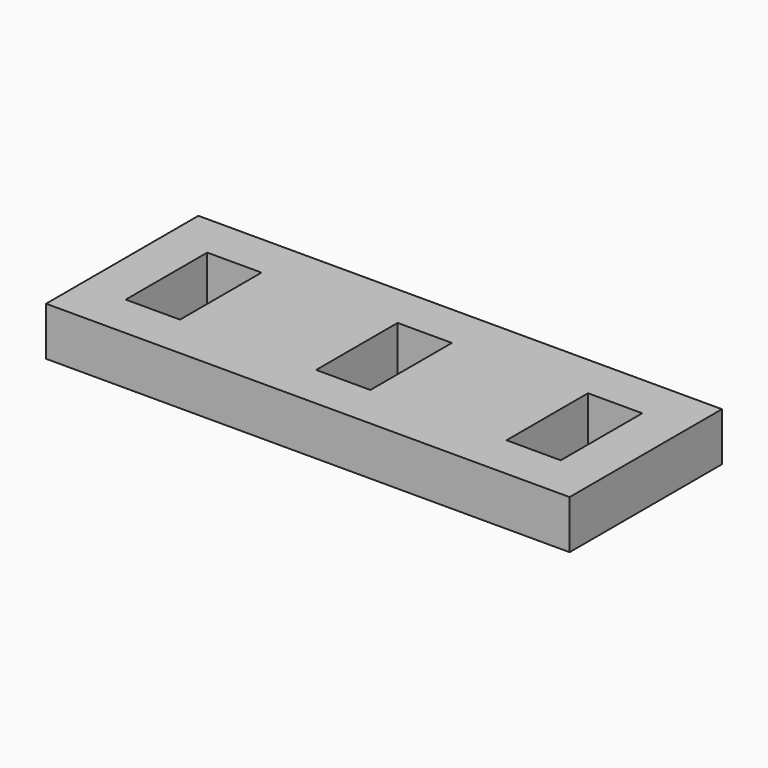
from build123d import *

# Parameters (mm, degrees)
F0_W     = 55
F0_H     = 20
F0_W_2   = 14.3
F0_H_2   = 10
F1_DEPTH = 5.1


with BuildPart() as f1:
    # F0 (on Top) → F1 (new body)
    with BuildSketch(Plane.XY):
        Rectangle(F0_W, F0_H)
        Polygon((-17.15, 5.35), (-17.15, 5), (-2.85, 5), (-2.85, 5.35), (2.85, 5.35), (2.85, 5), (17.15, 5), (17.15, 5.35), (22.85, 5.35), (22.85, -5.35), (17.15, -5.35), (17.15, -5), (2.85, -5), (2.85, -5.35), (-2.85, -5.35), (-2.85, -5), (-17.15, -5), (-17.15, -5.35), (-22.85, -5.35), (-22.85, 5.35), align=None, mode=Mode.SUBTRACT)
        with Locations((-10, 0)):
            Rectangle(F0_W_2, F0_H_2)
        with Locations((10, 0)):
            Rectangle(F0_W_2, F0_H_2)
    extrude(amount=F1_DEPTH)


solid = f1.part
